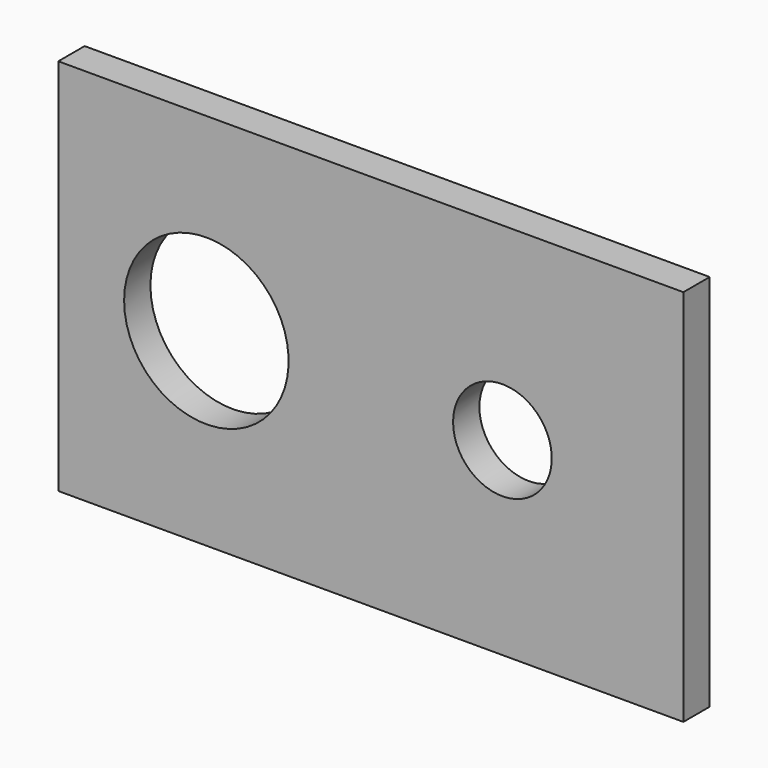
from build123d import *

# Parameters (mm, degrees)
F0_W     = 60.325
F0_H     = 36.5125
F1_DEPTH = 3.175
F3_D     = 15.875
F5_D     = 9.525


with BuildPart() as f1:
    # F0 (on Front) → F1 (new body)
    with BuildSketch(Plane.XZ):
        Rectangle(F0_W, F0_H)
    extrude(amount=F1_DEPTH)

    # F3 (through all)
    with Locations(Plane.XZ.offset(3.175)):
        with Locations((-15.875, 0)):
            Hole(F3_D / 2)

    # F5 (through all)
    with Locations(Plane.XZ.offset(3.175)):
        with Locations((12.7, 0)):
            Hole(F5_D / 2)


solid = f1.part
